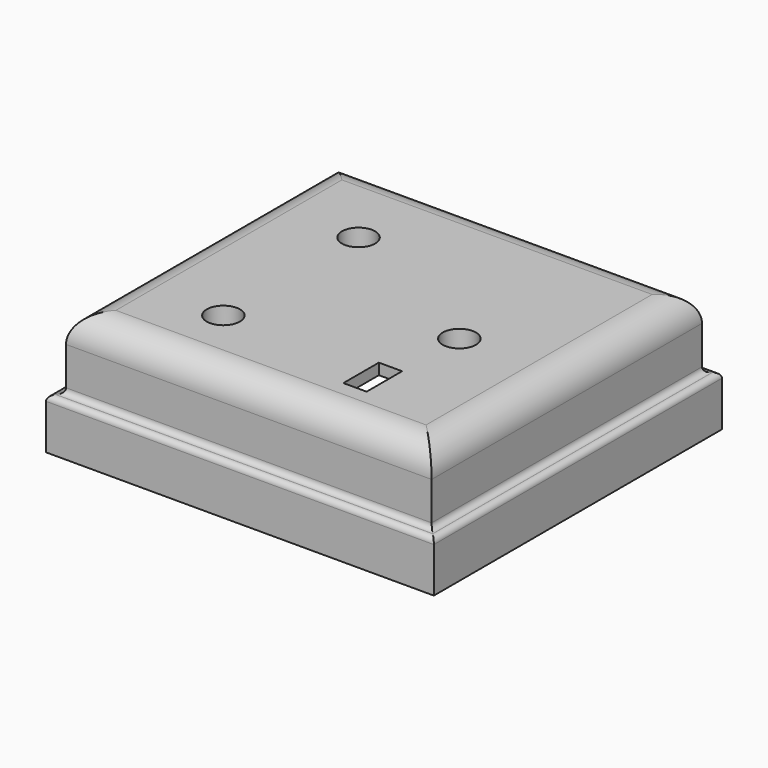
from build123d import *

# Parameters (mm, degrees)
PAD007_DEPTH      = 46.5
SKETCH012_W       = 58
SKETCH012_H       = 2
PAD008_DEPTH      = 46.5
SKETCH013_W       = 2
SKETCH013_H       = 46.5
PAD009_DEPTH      = 62
SKETCH014_W       = 2
SKETCH014_H       = 46.5
PAD010_DEPTH      = 4
SKETCH015_W       = 66
SKETCH015_H       = 2
PAD011_DEPTH      = 7.25
SKETCH016_W       = 66
SKETCH016_H       = 2
PAD012_DEPTH      = 7.25
SKETCH017_W       = 66
SKETCH017_H       = 61
PAD013_DEPTH      = 9.8
SKETCH018_W       = 66
SKETCH018_H       = 61
PAD014_DEPTH      = 1.2
PAD015_DEPTH      = 5
SKETCH020_R       = 2.8
POCKET003_DEPTH   = 5
SKETCH021_R       = 1.5
POCKET004_DEPTH   = 8
SKETCH031_W       = 3.2
SKETCH031_H       = 7
POCKET010_DEPTH   = 5
FILLET_R          = 5
POCKET011_DEPTH   = 11
SKETCH034_W       = 33.6
SKETCH034_H       = 1.8
POCKET012_DEPTH   = 1.4
SKETCH035_W       = 70
SKETCH035_H       = 65
SKETCH035_W_2     = 66
SKETCH035_H_2     = 61
PAD019_DEPTH      = 9
PAD019_DEPTH_BACK = 0.1
FILLET001_R       = 1
FILLET002_R       = 0.99
SKETCH036_W       = 66.4
SKETCH036_H       = 61.4
POCKET013_DEPTH   = 9
SKETCH037_W       = 4.2
SKETCH037_H       = 8
POCKET014_DEPTH   = 5
SKETCH038_R       = 3
POCKET015_DEPTH   = 5
SKETCH039_R       = 1.6
POCKET016_DEPTH   = 5


with BuildPart() as part:
    # Sketch011 (on DatumPlane) → Pad007 (new body)
    with BuildSketch(Plane.XZ.offset(3.25)):
        with BuildLine():
            Line((-5, 11), (-16, 11))
            Line((-16, 11), (-16, 6))
            Line((-16, 6), (-15.726136, 6))
            ThreePointArc((-5.273864, 6), (-10.5, 10.75), (-15.726136, 6))
            Line((-5.273864, 6), (-5, 6))
            Line((-5, 6), (-5, 11))
        make_face()
    extrude(amount=PAD007_DEPTH)

    # Sketch012 (on DatumPlane) → Pad008 (join)
    with BuildSketch(Plane.XZ.offset(3.25)):
        with BuildLine():
            Line((42, 11), (31, 11))
            Line((31, 11), (31, 6))
            Line((31, 6), (31.273864, 6))
            ThreePointArc((41.726136, 6), (36.5, 10.75), (31.273864, 6))
            Line((41.726136, 6), (42, 6))
            Line((42, 6), (42, 11))
        make_face()
        with Locations((13, 12)):
            Rectangle(SKETCH012_W, SKETCH012_H)
    extrude(amount=PAD008_DEPTH)

    # Sketch013 (on Face17 of Pad008) → Pad009 (join)
    with BuildSketch(Plane(origin=(42, -3.25, 0), x_dir=(0, 0, 1), z_dir=(1, 0, 0))):
        with Locations((12, 23.25)):
            Rectangle(SKETCH013_W, SKETCH013_H)
    extrude(amount=-PAD009_DEPTH)

    # Sketch014 (on Face17 of Pad009) → Pad010 (join)
    with BuildSketch(Plane(origin=(42, -3.25, 0), x_dir=(0, 0, 1), z_dir=(1, 0, 0))):
        with Locations((12, 23.25)):
            Rectangle(SKETCH014_W, SKETCH014_H)
    extrude(amount=PAD010_DEPTH)

    # Sketch015 (on Face10 of Pad010) → Pad011 (join)
    with BuildSketch(Plane(origin=(0, -3.25, 0), x_dir=(1, 0, 0), z_dir=(0, 1, 0))):
        with Locations((13, -12)):
            Rectangle(SKETCH015_W, SKETCH015_H)
    extrude(amount=PAD011_DEPTH)

    # Sketch016 (on Face12 of Pad011) → Pad012 (join)
    with BuildSketch(Plane.XZ.offset(49.75)):
        with Locations((13, 12)):
            Rectangle(SKETCH016_W, SKETCH016_H)
    extrude(amount=PAD012_DEPTH)

    # Sketch017 (on Face14 of Pad012) → Pad013 (join)
    with BuildSketch(Plane(origin=(0, -3.25, 11), x_dir=(1, 0, 0), z_dir=(0, 0, -1))):
        with Locations((13, 23.25)):
            Rectangle(SKETCH017_W, SKETCH017_H)
        Polygon((42.2, -4.45), (-16.2, -4.45), (-16.2, 50.95), (22.8, 50.95), (22.8, 52.25), (31.2, 52.25), (31.2, 50.95), (42.2, 50.95), align=None, mode=Mode.SUBTRACT)
    extrude(amount=PAD013_DEPTH)

    # Sketch018 (on Face18 of Pad013) → Pad014 (join)
    with BuildSketch(Plane(origin=(0, -3.25, 1.2), x_dir=(1, 0, 0), z_dir=(0, 0, -1))):
        with Locations((13, 23.25)):
            Rectangle(SKETCH018_W, SKETCH018_H)
        Polygon((-2.2, 52.95), (31.2, 52.95), (31.2, 50.95), (42.2, 50.95), (42.2, -4.45), (-16.2, -4.45), (-16.2, 50.95), (-2.2, 50.95), align=None, mode=Mode.SUBTRACT)
    extrude(amount=PAD014_DEPTH)

    # Sketch019 (on Face13 of Pad014) → Pad015 (join)
    with BuildSketch(Plane(origin=(0, -3.25, 11), x_dir=(1, 0, 0), z_dir=(0, 0, -1))):
        with BuildLine():
            ThreePointArc((-5, 36.977217), (2.3, 40.5), (-5, 44.022783))
            Line((-5, 44.022783), (-5, 36.977217))
        make_face()
        with BuildLine():
            ThreePointArc((-5, 6.477217), (2.3, 10), (-5, 13.522783))
            Line((-5, 13.522783), (-5, 6.477217))
        make_face()
        with BuildLine():
            ThreePointArc((31, 28.772783), (23.7, 25.25), (31, 21.727217))
            Line((31, 28.772783), (31, 21.727217))
        make_face()
    extrude(amount=PAD015_DEPTH)

    # Sketch020 (on Face67 of Pad015) → Pocket003 (cut)
    with BuildSketch(Plane(origin=(0, -3.25, 13), x_dir=(-1, 0, 0), z_dir=(0, 0, 1))):
        with Locations((2.2, 40.5)):
            Circle(SKETCH020_R)
        with Locations((2.2, 10)):
            Circle(SKETCH020_R)
        with Locations((-28.2, 25.25)):
            Circle(SKETCH020_R)
    extrude(amount=-POCKET003_DEPTH, mode=Mode.SUBTRACT)

    # Sketch021 (on Face67 of Pocket003) → Pocket004 (cut)
    with BuildSketch(Plane(origin=(0, -3.25, 13), x_dir=(-1, 0, 0), z_dir=(0, 0, 1))):
        with Locations((-28.2, 25.25)):
            Circle(SKETCH021_R)
        with Locations((2.2, 10)):
            Circle(SKETCH021_R)
        with Locations((2.2, 40.5)):
            Circle(SKETCH021_R)
    extrude(amount=-POCKET004_DEPTH, mode=Mode.SUBTRACT)

    # Sketch031 (on Face14 of Pocket004) → Pocket010 (cut)
    with BuildSketch(Plane(origin=(0, -3.25, 11), x_dir=(1, 0, 0), z_dir=(0, 0, -1))):
        with Locations((26.01, 42.05)):
            Rectangle(SKETCH031_W, SKETCH031_H)
    extrude(amount=-POCKET010_DEPTH, mode=Mode.SUBTRACT)

    # Fillet
    fillet_edges = [part.edges().sort_by_distance(p)[0] for p in [
        (-20, -26.5, 13),
        (-20, -53.375, 13),
        (13, -57, 13),
        (46, -53.375, 13),
        (46, -26.5, 13),
        (46, 0.375, 13),
        (13, 4, 13),
        (-20, 0.375, 13),
    ]]
    fillet(fillet_edges, radius=FILLET_R)

    # Sketch033 (on Face30 of Fillet) → Pocket011 (cut)
    with BuildSketch(Plane(origin=(0, -3.25, 11), x_dir=(1, 0, 0), z_dir=(0, 0, -1))):
        Polygon((22.6, 51.15), (-16.4, 51.15), (-16.4, -4.65), (42.4, -4.65), (42.4, 51.15), (31.4, 51.15), (31.4, 52.45), (22.6, 52.45), align=None)
        Polygon((-16.2, 50.95), (-16.2, -4.45), (42.2, -4.45), (42.2, 50.95), (31.2, 50.95), (31.2, 52.25), (22.8, 52.25), (22.8, 50.95), align=None, mode=Mode.SUBTRACT)
    extrude(amount=POCKET011_DEPTH, mode=Mode.SUBTRACT)

    # Sketch034 (on Face44 of Pocket011) → Pocket012 (cut)
    with BuildSketch(Plane(origin=(0, -3.25, 0), x_dir=(1, 0, 0), z_dir=(0, 0, -1))):
        with Locations((14.6, 52.05)):
            Rectangle(SKETCH034_W, SKETCH034_H)
    extrude(amount=-POCKET012_DEPTH, mode=Mode.SUBTRACT)

    # Sketch035 (on Face44 of Pocket012) → Pad019 (join, two sides)
    with BuildSketch(Plane(origin=(0, -3.25, 0), x_dir=(1, 0, 0), z_dir=(0, 0, -1))) as pad019_sk:
        with Locations((13, 23.25)):
            Rectangle(SKETCH035_W, SKETCH035_H)
        with Locations((13, 23.25)):
            Rectangle(SKETCH035_W_2, SKETCH035_H_2, mode=Mode.SUBTRACT)
    extrude(amount=PAD019_DEPTH)
    extrude(pad019_sk.sketch, amount=-PAD019_DEPTH_BACK)

    # Fillet001
    fillet001_edges = [part.edges().sort_by_distance(p)[0] for p in [
        (46, -26.5, 0.1),
        (13, 4, 0.1),
        (-20, -26.5, 0.1),
        (13, -57, 0.1),
    ]]
    fillet(fillet001_edges, radius=FILLET001_R)

    # Fillet002
    fillet002_edges = [part.edges().sort_by_distance(p)[0] for p in [
        (13, 6, 0.1),
        (-22, -26.5, 0.1),
        (48, -26.5, 0.1),
        (13, -59, 0.1),
    ]]
    fillet(fillet002_edges, radius=FILLET002_R)

    # Sketch036 (on Face18 of Fillet002) → Pocket013 (cut)
    with BuildSketch(Plane(origin=(0, -3.25, -9), x_dir=(1, 0, 0), z_dir=(0, 0, -1))):
        with Locations((13, 23.25)):
            Rectangle(SKETCH036_W, SKETCH036_H)
    extrude(amount=-POCKET013_DEPTH, mode=Mode.SUBTRACT)

    # Sketch037 (on Face58 of Pocket013) → Pocket014 (cut)
    with BuildSketch(Plane(origin=(0, -3.25, 11), x_dir=(1, 0, 0), z_dir=(0, 0, -1))):
        with Locations((26.01, 42.05)):
            Rectangle(SKETCH037_W, SKETCH037_H)
    extrude(amount=-POCKET014_DEPTH, mode=Mode.SUBTRACT)

    # Sketch038 (on Face37 of Pocket014) → Pocket015 (cut)
    with BuildSketch(Plane(origin=(0, -3.25, 13), x_dir=(-1, 0, 0), z_dir=(0, 0, 1))):
        with Locations((2.2, 40.5)):
            Circle(SKETCH038_R)
        with Locations((-28.2, 25.25)):
            Circle(SKETCH038_R)
        with Locations((2.2, 10)):
            Circle(SKETCH038_R)
    extrude(amount=-POCKET015_DEPTH, mode=Mode.SUBTRACT)

    # Sketch039 (on Face66 of Pocket015) → Pocket016 (cut)
    with BuildSketch(Plane(origin=(0, -3.25, 8), x_dir=(-1, 0, 0), z_dir=(0, 0, 1))):
        with Locations((2.2, 40.5)):
            Circle(SKETCH039_R)
        with Locations((-28.2, 25.25)):
            Circle(SKETCH039_R)
        with Locations((2.2, 10)):
            Circle(SKETCH039_R)
    extrude(amount=-POCKET016_DEPTH, mode=Mode.SUBTRACT)


solid = part.part
